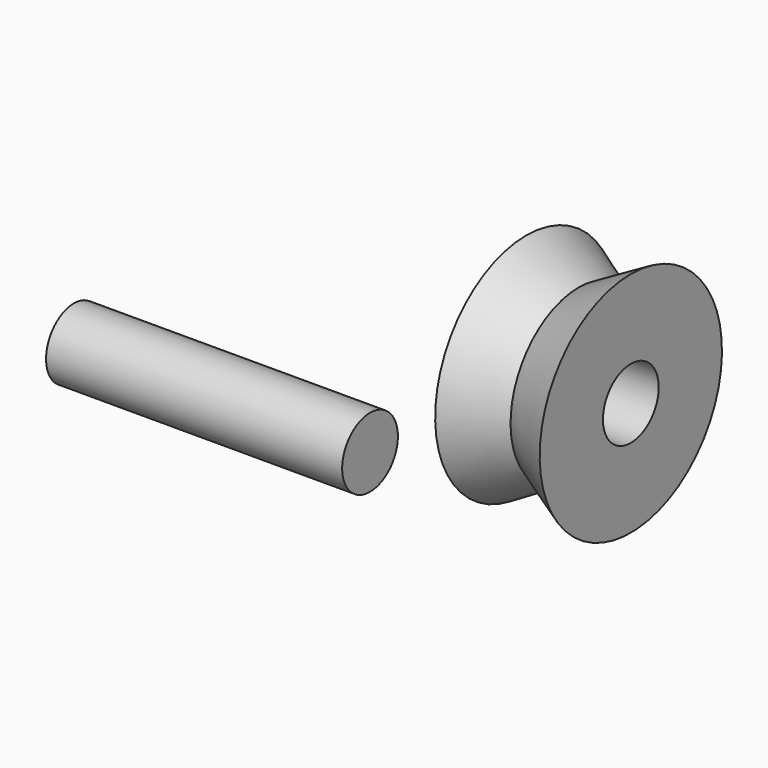
from build123d import *

# Parameters (mm, degrees)
F2_R     = 2
F3_DEPTH = 17


with BuildPart() as f1:
    # F0 (on Front) → F1 (revolve)
    with BuildSketch(Plane.XZ):
        Polygon((-3, 2), (0, 2), (3, 2), (3, 6.54), (0, 4.88), (-3, 6.54), align=None)
    revolve(axis=Axis((1.37769, 0, 0), (1, 0, 0)))


with BuildPart() as f3:
    # F2 (on Right) → F3 (new body)
    with BuildSketch(Plane.YZ):
        with Locations((-36.213674, 16.801665)):
            Circle(F2_R)
    extrude(amount=F3_DEPTH)


solid = Compound([f1.part, f3.part])
